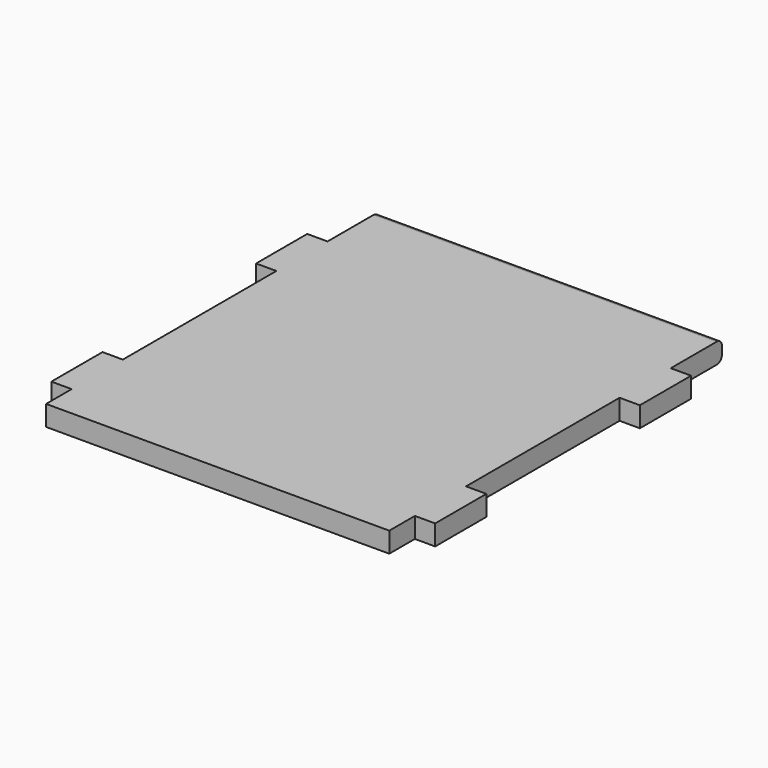
from build123d import *

# Parameters (mm, degrees)
F0_W     = 6.35
F0_H     = 20
F1_DEPTH = 6.35
F2_R     = 2


with BuildPart() as f1:
    # F0 (on Top) → F1 (new body)
    with BuildSketch(Plane.XY):
        Polygon((-9.748025, 120), (-117.048025, 120), (-117.048025, 100), (-117.048025, 80), (-117.048025, 20), (-117.048025, 0), (-117.048025, -10), (-9.748025, -10), (-9.748025, 0), (-9.748025, 20), (-9.748025, 80), (-9.748025, 100), align=None)
        with Locations((-120.223025, 90)):
            Rectangle(F0_W, F0_H)
        with Locations((-6.573025, 90)):
            Rectangle(F0_W, F0_H)
        with Locations((-6.573025, 10)):
            Rectangle(F0_W, F0_H)
        with Locations((-120.223025, 10)):
            Rectangle(F0_W, F0_H)
    extrude(amount=F1_DEPTH)

    # F2
    f2_edges = [f1.edges().sort_by_distance(p)[0] for p in [
        (-63.398025, 120, 6.35),
        (-63.398025, 120, 0),
    ]]
    fillet(f2_edges, radius=F2_R)


solid = f1.part
